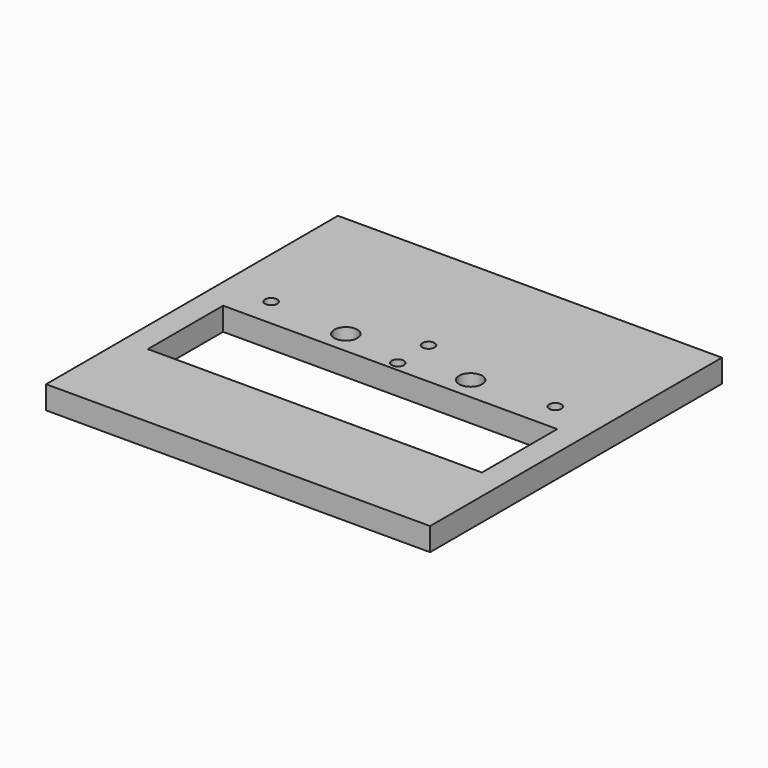
from build123d import *

# Parameters (mm, degrees)
F0_W     = 100
F0_H     = 95
F3_DEPTH = 6
F1_W     = 87
F1_H     = 24.5
F2_R     = 1.5875
F2_R_2   = 3
F4_DEPTH = 25


with BuildPart() as f3:
    # F0 (on Top) → F3 (new body)
    with BuildSketch(Plane.XY):
        Rectangle(F0_W, F0_H)
    extrude(amount=-F3_DEPTH)

    # F1 (on Top) + F2 (on Top) → F4 (cut)
    with BuildSketch(Plane.XY):
        with Locations((0, -10.25)):
            Rectangle(F1_W, F1_H)
    with BuildSketch(Plane.XY):
        with Locations((-37, 9.5)):
            Circle(F2_R)
        with Locations((-16.25, 7.9)):
            Circle(F2_R_2)
        with Locations((0, 4.5)):
            Circle(F2_R)
        with Locations((0, 14.5)):
            Circle(F2_R)
        with Locations((16.25, 7.9)):
            Circle(F2_R_2)
        with Locations((37, 9.5)):
            Circle(F2_R)
    extrude(amount=-F4_DEPTH, mode=Mode.SUBTRACT)


solid = f3.part
